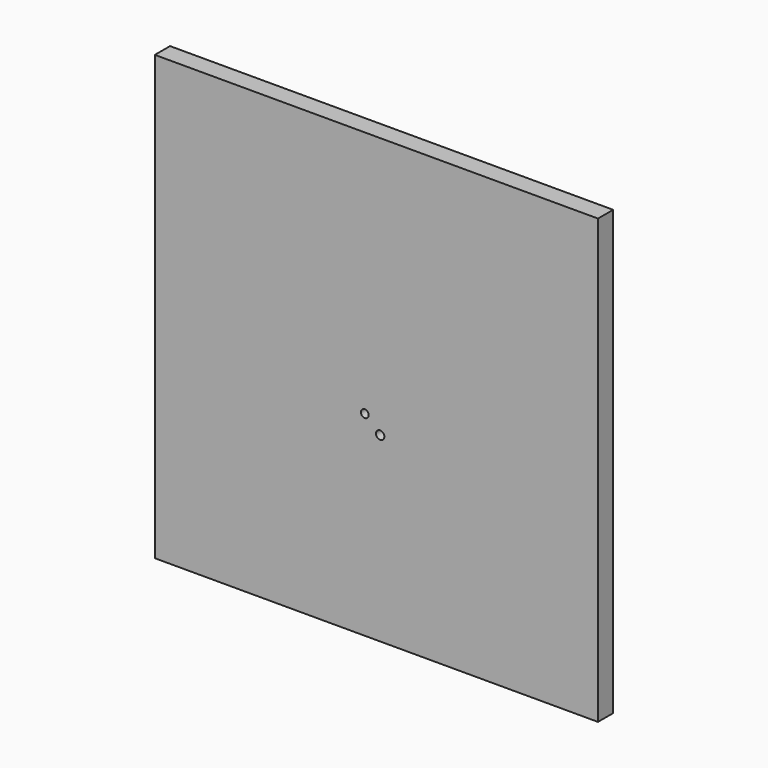
from build123d import *

# Parameters (mm, degrees)
F0_W     = 1778
F0_H     = 1778
F1_DEPTH = 76.2
F2_R     = 15.678622
F2_R_2   = 16.818193
F3_DEPTH = 76.2


with BuildPart() as f1:
    # F0 (on Front) → F1 (new body)
    with BuildSketch(Plane.XZ):
        with Locations((2.674751, 137.909544)):
            Rectangle(F0_W, F0_H)
    extrude(amount=F1_DEPTH)

    # F2 (on face) → F3 (cut, through all)
    with BuildSketch(Plane.XZ.offset(76.2)):
        with Locations((-43.849692, 33.549745)):
            Circle(F2_R)
        with Locations((17.664868, -22.186266)):
            Circle(F2_R_2)
    extrude(amount=-F3_DEPTH, mode=Mode.SUBTRACT)


solid = f1.part
